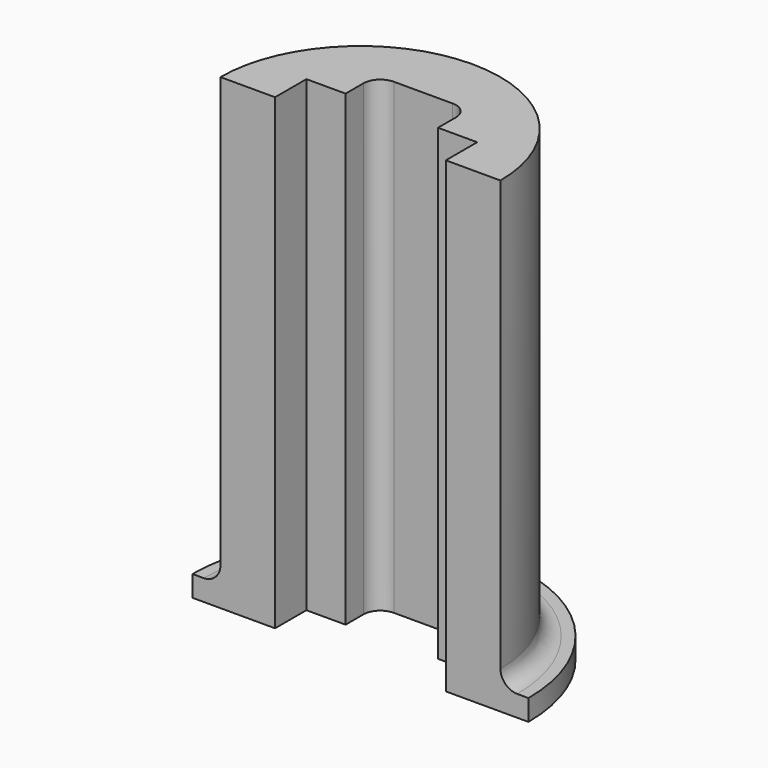
from build123d import *

# Parameters (mm, degrees)
F1_DEPTH = 41.75
F2_START = -38
F2_DEPTH = 3.75
F3_R     = 3


with BuildPart() as f1:
    # F0 (on Top) → F1 (new body, symmetric)
    with BuildSketch(Plane.XY):
        with BuildLine():
            Line((-25, -7), (-15.25, -7))
            Line((-15.25, -7), (-15.25, 0))
            Line((-15.25, 0), (-8.25, 0))
            Line((-8.25, 0), (-8.25, 7))
            Line((-8.25, 7), (0, 7))
            Line((0, 7), (0, 18))
            ThreePointArc((0, 18), (-17.6776695297, 10.6776695297), (-25, -7))
        make_face()
    extrude(amount=F1_DEPTH, both=True)

    # F0 (on Top) → F2 (join)
    with BuildSketch(Plane.XY.offset(F2_START)):
        with BuildLine():
            Line((-30, -7), (-25, -7))
            ThreePointArc((-25, -7), (-17.6776695297, 10.6776695297), (0, 18))
            Line((0, 18), (0, 23))
            ThreePointArc((0, 23), (-21.2132034356, 14.2132034356), (-30, -7))
        make_face()
    extrude(amount=-F2_DEPTH)

    # F3
    f3_edges = [f1.edges().sort_by_distance(p)[0] for p in [
        (-8.25, 7, 0),
        (-17.67767, 10.67767, -38),
    ]]
    fillet(f3_edges, radius=F3_R)

    # F4: F1 across plane


with BuildPart() as f1_1:
    add(f1.part)
    add(f1.part.mirror(Plane.YZ))


solid = f1_1.part
